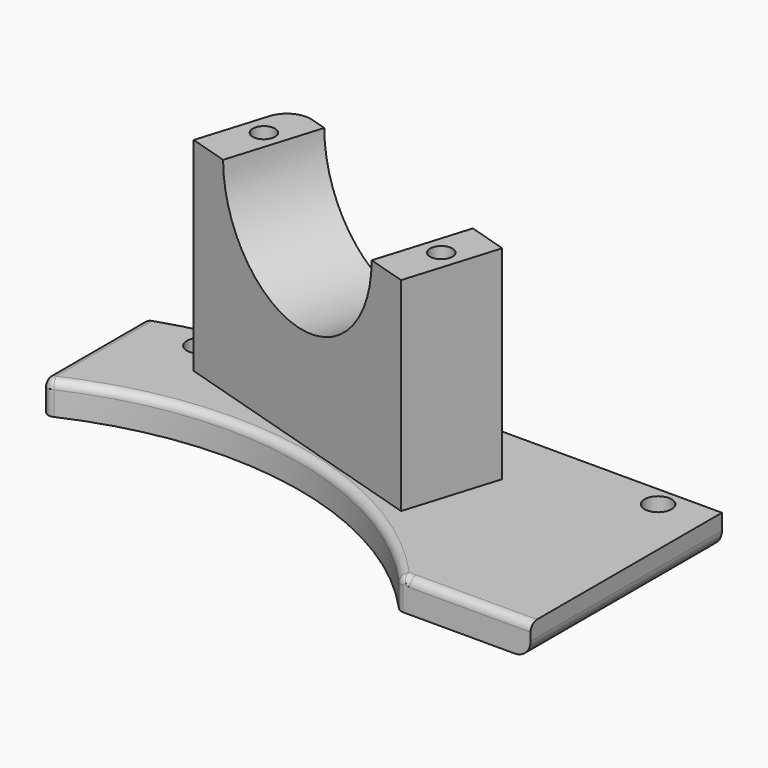
from build123d import *

# Parameters (mm, degrees)
PAD_DEPTH       = 4
PAD001_DEPTH    = 25.5
SKETCH002_R     = 12.9
POCKET_DEPTH    = 35.4050611872
FILLET_R        = 2
FILLET001_R     = 1
FILLET002_R     = 1
FILLET003_R     = 1
FILLET004_R     = 3
SKETCH003_R     = 1.4
POCKET001_DEPTH = 15
SKETCH004_R     = 1.7
POCKET002_DEPTH = 5


with BuildPart() as part:
    # Sketch → Pad (new body)
    with BuildSketch(Plane.XY):
        with BuildLine():
            Line((33.5410196625, 30), (50, 30))
            Line((50, 30), (50, 60))
            Line((0, 60), (50, 60))
            ThreePointArc((0, 60), (-10.1461187235, 59.1359135792), (-20, 56.5685424949))
            Line((-20, 40.3112887415), (-20, 56.5685424949))
            ThreePointArc((33.5410196625, 30), (8.5100218715, 44.1880020792), (-20, 40.3112887415))
        make_face()
    extrude(amount=PAD_DEPTH)

    # Sketch001 → Pad001 (new body)
    with BuildSketch(Plane.XY.offset(4)):
        Polygon((-5.671183324, 62.6409760428), (28.7557878907, 52.1155946728), (25.247327434, 40.6399376012), (-9.1796437807, 51.1653189712), align=None)
    extrude(amount=PAD001_DEPTH)

    # Sketch002 → Pocket (cut, through all)
    with BuildSketch(Plane(origin=(17.029415001, 55.7007066474, 0), x_dir=(-0.956304756, 0.2923717047, 0), z_dir=(0.2923717047, 0.956304756, 0))):
        with Locations((5.7378285358, 29.5)):
            Circle(SKETCH002_R)
    extrude(amount=-POCKET_DEPTH, mode=Mode.SUBTRACT)

    # Fillet
    fillet_edges = [part.edges().sort_by_distance(p)[0] for p in [
        (50, 45, 0),
    ]]
    fillet(fillet_edges, radius=FILLET_R)

    # Fillet001
    fillet001_edges = [part.edges().sort_by_distance(p)[0] for p in [
        (-20, 48.439916, 4),
    ]]
    fillet(fillet001_edges, radius=FILLET001_R)

    # Fillet002
    fillet002_edges = [part.edges().sort_by_distance(p)[0] for p in [
        (9.054169, 44.079724, 4),
    ]]
    fillet(fillet002_edges, radius=FILLET002_R)

    # Fillet003
    fillet003_edges = [part.edges().sort_by_distance(p)[0] for p in [
        (42.435596, 30, 4),
    ]]
    fillet(fillet003_edges, radius=FILLET003_R)

    # Fillet004
    fillet004_edges = [part.edges().sort_by_distance(p)[0] for p in [
        (-5.671183, 62.640976, 16.75),
    ]]
    fillet(fillet004_edges, radius=FILLET004_R)

    # Sketch003 → Pocket001 (cut)
    with BuildSketch(Plane.XY.offset(29.5)):
        with Locations((-4.7794903371, 56.6647829722)):
            Circle(SKETCH003_R)
        with Locations((24.6746961465, 47.6597344667)):
            Circle(SKETCH003_R)
    extrude(amount=-POCKET001_DEPTH, mode=Mode.SUBTRACT)

    # Sketch004 → Pocket002 (cut)
    with BuildSketch(Plane.XY.offset(4)):
        with Locations((44, 57.5)):
            Circle(SKETCH004_R)
        with Locations((-12, 55.75)):
            Circle(SKETCH004_R)
        with Locations((14, 57.5)):
            Circle(SKETCH004_R)
    extrude(amount=-POCKET002_DEPTH, mode=Mode.SUBTRACT)


solid = part.part
